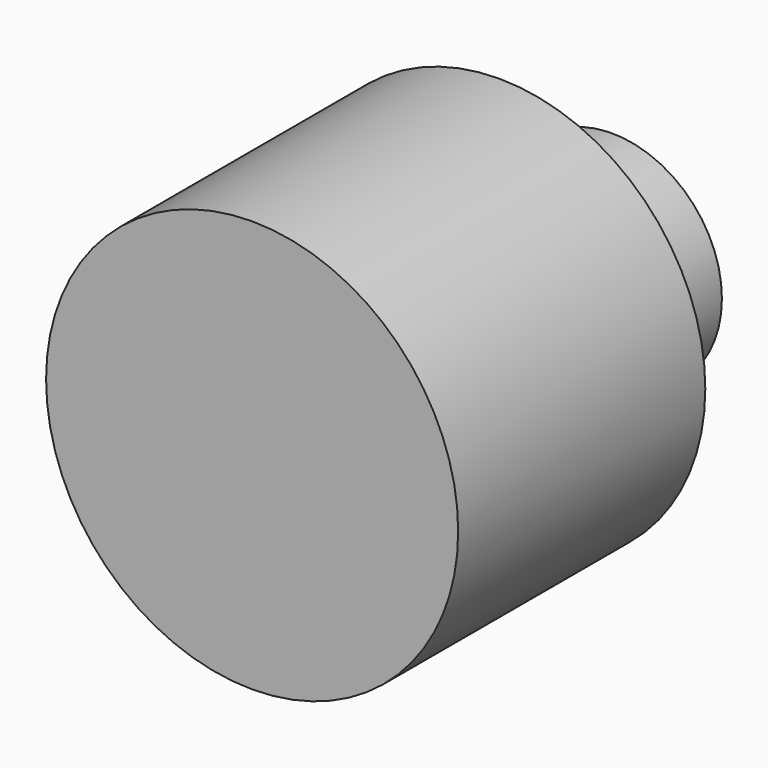
from build123d import *

# Parameters (mm, degrees)
F0_R      = 41.16711
F1_DEPTH  = 61.722
F2_R      = 21.956107
F1_FACE_R = 41.16711
F3_DEPTH  = 25.4


with BuildPart() as f1:
    # F0 (on Front) → F1 (new body)
    with BuildSketch(Plane.XZ):
        Circle(F0_R)
    extrude(amount=F1_DEPTH)

    # F2 (on Front) + F1_face (on face) → F3 (join)
    with BuildSketch(Plane.XZ):
        with Locations((2.209347, 0)):
            Circle(F2_R)
    with BuildSketch(Plane.XZ.offset(61.722)):
        Circle(F1_FACE_R)
    extrude(amount=-F3_DEPTH)


solid = f1.part
